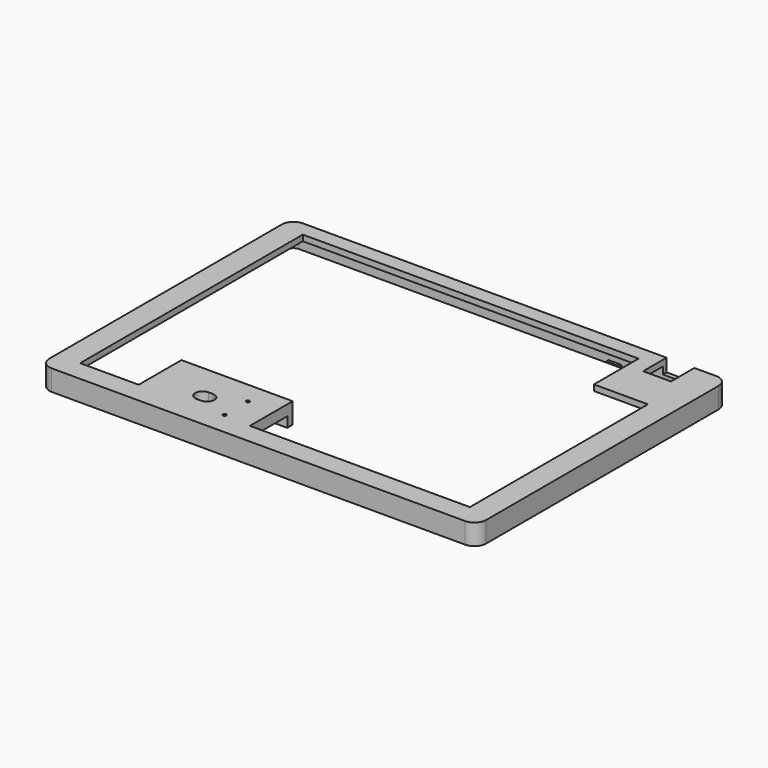
from build123d import *

# Parameters (mm, degrees)
PAD006_DEPTH    = 5.1
PAD007_DEPTH    = 2
SKETCH012_W     = 19.5
SKETCH012_H     = 3.5
POCKET004_DEPTH = 26
POCKET005_DEPTH = 5
SKETCH014_R     = 0.575
POCKET006_DEPTH = 3.6
SKETCH015_R     = 1
POCKET007_DEPTH = 2
SKETCH016_W     = 4.5
SKETCH016_H     = 1
PAD008_DEPTH    = 1
CHAMFER_SIZE    = 0.99
SKETCH017_W     = 4.5
SKETCH017_H     = 1
PAD009_DEPTH    = 1
CHAMFER001_SIZE = 0.99
SKETCH018_W     = 9.5
SKETCH018_H     = 10
POCKET008_DEPTH = 4.4
SKETCH022_W     = 4.5
SKETCH022_H     = 1
PAD011_DEPTH    = 1
CHAMFER002_SIZE = 0.99
SKETCH023_W     = 10
SKETCH023_H     = 23.75
PAD012_DEPTH    = 5.1


with BuildPart() as part:
    # Sketch010 → Pad006 (new body)
    with BuildSketch(Plane.XY.offset(7.4)):
        with BuildLine():
            Line((149.259997, 103.29), (149.259997, 4))
            ThreePointArc((145.259999, 0), (148.088425, 1.171573), (149.259997, 4))
            Line((3.999999, 0), (145.259999, 0))
            ThreePointArc((0, 4), (1.171572, 1.171573), (3.999999, 0))
            Line((0, 103.29), (0, 4))
            ThreePointArc((3.999997, 107.29), (1.171572, 106.118426), (0, 103.29))
            Line((3.999997, 107.29), (145.259997, 107.29))
            ThreePointArc((149.259997, 103.29), (148.088425, 106.118427), (145.259997, 107.29))
        make_face()
        with BuildLine():
            Line((3.999997, 105.69), (145.259997, 105.69))
            ThreePointArc((147.659997, 103.29), (146.957054, 104.987056), (145.259997, 105.69))
            Line((147.659997, 103.29), (147.659997, 4))
            ThreePointArc((145.259999, 1.6), (146.957054, 2.302944), (147.659997, 4))
            Line((66.05, 1.6), (145.259999, 1.6))
            Line((66.05, 1.6), (66.05, 25.35))
            Line((66.05, 25.35), (38.05, 25.35))
            Line((38.05, 25.35), (38.05, 1.6))
            Line((4, 1.6), (38.05, 1.6))
            ThreePointArc((1.6, 4), (2.302944, 2.302944), (4, 1.6))
            Line((1.6, 103.29), (1.6, 4))
            ThreePointArc((3.999997, 105.69), (2.302943, 104.987055), (1.6, 103.29))
        make_face(mode=Mode.SUBTRACT)
    extrude(amount=PAD006_DEPTH)

    # Sketch011 (on Face22 of Pad006) → Pad007 (join)
    with BuildSketch(Plane.XY.offset(12.5)):
        with BuildLine():
            Line((149.259997, 103.29), (149.259997, 4))
            ThreePointArc((145.259999, 0), (148.088425, 1.171573), (149.259997, 4))
            Line((3.999999, 0), (145.259999, 0))
            ThreePointArc((0, 4), (1.171572, 1.171573), (3.999999, 0))
            Line((0, 103.29), (0, 4))
            ThreePointArc((3.999997, 107.29), (1.171572, 106.118426), (0, 103.29))
            Line((3.999997, 107.29), (145.259997, 107.29))
            ThreePointArc((149.259997, 103.29), (148.088425, 106.118427), (145.259997, 107.29))
        make_face()
        Polygon((8.05, 102.19), (8.05, 7.1), (28.05, 7.1), (28.05, 25.35), (66.05, 25.35), (66.05, 7.1), (141.209997, 7.1), (141.209997, 83.13), (122.759997, 83.13), (122.759997, 102.19), align=None, mode=Mode.SUBTRACT)
    extrude(amount=PAD007_DEPTH)

    # Sketch012 (on Face26 of Pad007) → Pocket004 (cut)
    with BuildSketch(Plane.YZ.offset(66.05)):
        with Locations((13.3, 9.15)):
            Rectangle(SKETCH012_W, SKETCH012_H)
    extrude(amount=-POCKET004_DEPTH, mode=Mode.SUBTRACT)

    # Sketch013 (on Face25 of Pocket004) → Pocket005 (cut)
    with BuildSketch(Plane.XY.offset(14.5)):
        with BuildLine():
            ThreePointArc((45.3, 15.325), (42.8, 12.825), (45.3, 10.325))
            Line((45.3, 10.325), (46.8, 10.325))
            ThreePointArc((46.8, 10.325), (49.3, 12.825), (46.8, 15.325))
            Line((45.3, 15.325), (46.8, 15.325))
        make_face()
    extrude(amount=-POCKET005_DEPTH, mode=Mode.SUBTRACT)

    # Sketch014 (on Face29 of Pocket005) → Pocket006 (cut)
    with BuildSketch(Plane(origin=(0, 0, 10.9), x_dir=(1, 0, 0), z_dir=(0, 0, -1))):
        with Locations((56.8, -7.825)):
            Circle(SKETCH014_R)
        with Locations((56.8, -17.825)):
            Circle(SKETCH014_R)
    extrude(amount=-POCKET006_DEPTH, mode=Mode.SUBTRACT)

    # Sketch015 (on Face29 of Pocket006) → Pocket007 (cut)
    with BuildSketch(Plane(origin=(0, 0, 10.9), x_dir=(1, 0, 0), z_dir=(0, 0, -1))):
        with Locations((56.8, -17.825)):
            Circle(SKETCH015_R)
        with Locations((56.8, -7.825)):
            Circle(SKETCH015_R)
    extrude(amount=-POCKET007_DEPTH, mode=Mode.SUBTRACT)

    # Sketch016 (on Face6 of Pocket007) → Pad008 (join)
    with BuildSketch(Plane.YZ.offset(147.659997)):
        with Locations((11.3, 7.9)):
            Rectangle(SKETCH016_W, SKETCH016_H)
        with Locations((95.99, 7.9)):
            Rectangle(SKETCH016_W, SKETCH016_H)
    extrude(amount=-PAD008_DEPTH)

    # Chamfer
    chamfer_edges = [part.edges().sort_by_distance(p)[0] for p in [
        (146.659997, 11.3, 7.4),
        (146.659997, 95.99, 7.4),
    ]]
    chamfer(chamfer_edges, length=CHAMFER_SIZE)

    # Sketch017 (on Face31 of Chamfer) → Pad009 (join)
    with BuildSketch(Plane(origin=(1.6, 0, 0), x_dir=(0, -1, 0), z_dir=(-1, 0, 0))):
        with Locations((-95.99, 7.9)):
            Rectangle(SKETCH017_W, SKETCH017_H)
        with Locations((-11.3, 7.9)):
            Rectangle(SKETCH017_W, SKETCH017_H)
    extrude(amount=-PAD009_DEPTH)

    # Chamfer001
    chamfer001_edges = [part.edges().sort_by_distance(p)[0] for p in [
        (2.6, 95.99, 7.4),
        (2.6, 11.3, 7.4),
    ]]
    chamfer(chamfer001_edges, length=CHAMFER001_SIZE)

    # Sketch018 (on Face47 of Chamfer001) → Pocket008 (cut)
    with BuildSketch(Plane.XY.offset(14.5)):
        with Locations((133.009997, 102.29)):
            Rectangle(SKETCH018_W, SKETCH018_H)
    extrude(amount=-POCKET008_DEPTH, mode=Mode.SUBTRACT)

    # Sketch022 (on Face31 of Pocket008) → Pad011 (join)
    with BuildSketch(Plane(origin=(0, 105.69, 0), x_dir=(-1, 0, 0), z_dir=(0, 1, 0))):
        with Locations((-111.959997, 7.9)):
            Rectangle(SKETCH022_W, SKETCH022_H)
    extrude(amount=-PAD011_DEPTH)

    # Chamfer002
    chamfer002_edges = [part.edges().sort_by_distance(p)[0] for p in [
        (111.959997, 104.69, 7.4),
    ]]
    chamfer(chamfer002_edges, length=CHAMFER002_SIZE)

    # Sketch023 (on Face42 of Chamfer002) → Pad012 (join)
    with BuildSketch(Plane(origin=(0, 0, 12.5), x_dir=(1, 0, 0), z_dir=(0, 0, -1))):
        with Locations((33.05, -13.475)):
            Rectangle(SKETCH023_W, SKETCH023_H)
    extrude(amount=PAD012_DEPTH)


solid = part.part
